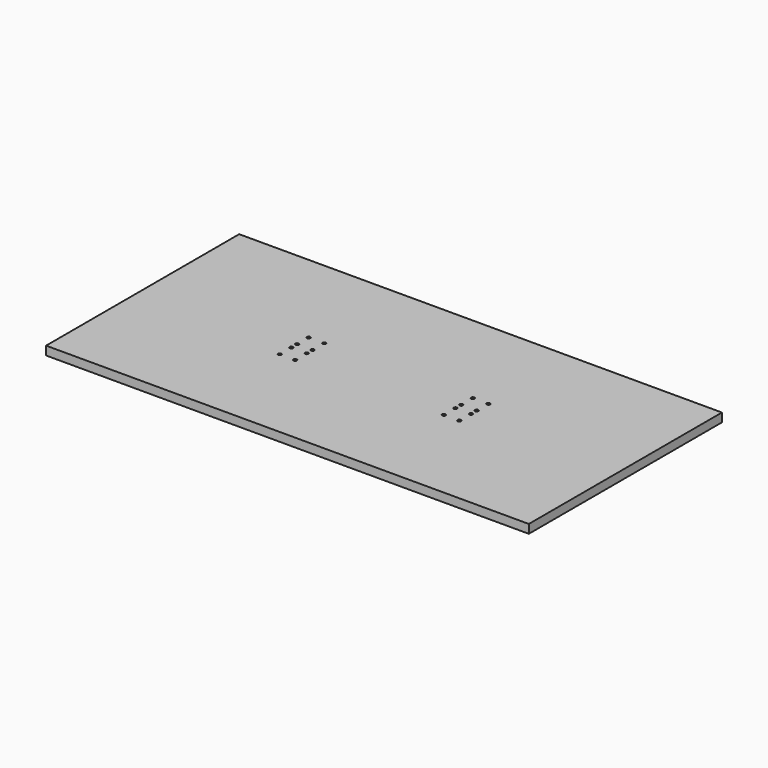
from build123d import *

# Parameters (mm, degrees)
F0_W     = 1000
F0_H     = 500
F1_DEPTH = 18
F3_R     = 3.477932
F4_DEPTH = 18


with BuildPart() as f1:
    # F0 (on Top) → F1 (new body)
    with BuildSketch(Plane.XY):
        with Locations((500, 250)):
            Rectangle(F0_W, F0_H)
    extrude(amount=F1_DEPTH)

    # F3 (on face) → F4 (cut)
    with BuildSketch(Plane.XY.offset(18)):
        with Locations((346, 212.5)):
            Circle(F3_R)
        with Locations((314, 212.5)):
            Circle(F3_R)
        with Locations((314, 242.5)):
            Circle(F3_R)
        with Locations((346, 242.5)):
            Circle(F3_R)
        with Locations((346, 257.5)):
            Circle(F3_R)
        with Locations((314, 257.5)):
            Circle(F3_R)
        with Locations((314, 287.5)):
            Circle(F3_R)
        with Locations((346, 287.5)):
            Circle(F3_R)
        with Locations((654, 287.5)):
            Circle(F3_R)
        with Locations((654, 257.5)):
            Circle(F3_R)
        with Locations((654, 242.5)):
            Circle(F3_R)
        with Locations((654, 212.5)):
            Circle(F3_R)
        with Locations((686, 287.5)):
            Circle(F3_R)
        with Locations((686, 257.5)):
            Circle(F3_R)
        with Locations((686, 242.5)):
            Circle(F3_R)
        with Locations((686, 212.5)):
            Circle(F3_R)
    extrude(amount=-F4_DEPTH, mode=Mode.SUBTRACT)


solid = f1.part
